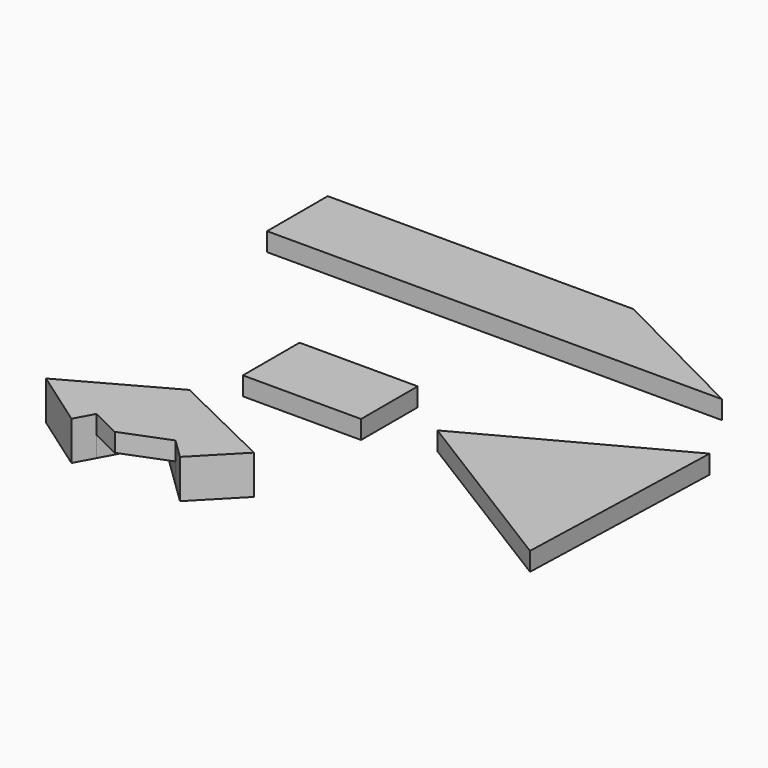
from build123d import *

# Parameters (mm, degrees)
F1_DEPTH = 9.7
F0_W     = 9.863179177
F0_H     = 18.8622772694
F2_DEPTH = 4.6
F0_W_2   = 29.3937120587
F0_H_2   = 17.604790628


with BuildPart() as f1:
    # F0 (on Top) → F1 (new body)
    with BuildSketch(Plane.XY):
        Polygon((-38.4955778718, -28.8656055927), (-63.2375329733, -42.5053946674), (-48.8047227263, -52.6559427381), (-46.3042226437, -48.0363736752), (-39.4471921027, -35.3682972491), (-27.3076091883, -47.1706705536), (-22.3181508482, -52.0215332508), (-12.2244788289, -41.6394715056), align=None)
    extrude(amount=-F1_DEPTH)

    # F0 (on Top) → F2, piece 4 (join)
    with BuildSketch(Plane.XY):
        Polygon((-38.4955778718, -28.8656055927), (-63.2375329733, -42.5053946674), (-48.8047227263, -52.6559427381), (-46.3042226437, -48.0363736752), (-39.4471921027, -35.3682972491), (-27.3076091883, -47.1706705536), (-22.3181508482, -52.0215332508), (-12.2244788289, -41.6394715056), align=None)
        Polygon((-39.4471921027, -35.3682972491), (-46.3042226437, -48.0363736752), (-38.8028048201, -51.6838078871), (-27.3076091883, -47.1706705536), align=None)
    extrude(amount=-F2_DEPTH)


with BuildPart() as f2:
    # F0 (on Top) → F2 (new body)
    with BuildSketch(Plane.XY):
        with Locations((-63.5007191449, 42.1257503331)):
            Rectangle(F0_W, F0_H)
        Polygon((-58.5691295564, 51.5568889678), (-58.5691295564, 32.6946116984), (44.7018332779, 32.6946116984), (34.3673656484, 37.9494259188), (24.5120691447, 42.9605937961), (7.6060225256, 51.5568889678), align=None)
    extrude(amount=-F2_DEPTH)


with BuildPart() as f2b:
    # F0 (on Top) → F2, piece 2 (new body)
    with BuildSketch(Plane.XY):
        with Locations((-19.5084987208, -8.802395314)):
            Rectangle(F0_W_2, F0_H_2)
    extrude(amount=-F2_DEPTH)


with BuildPart() as f2c:
    # F0 (on Top) → F2, piece 3 (new body)
    with BuildSketch(Plane.XY):
        Polygon((9.7623080817, -12.0744576799), (55.4539933801, -40.4148735106), (57.151670794, 13.3254946149), align=None)
    extrude(amount=-F2_DEPTH)


solid = Compound([f1.part, f2.part, f2b.part, f2c.part])
